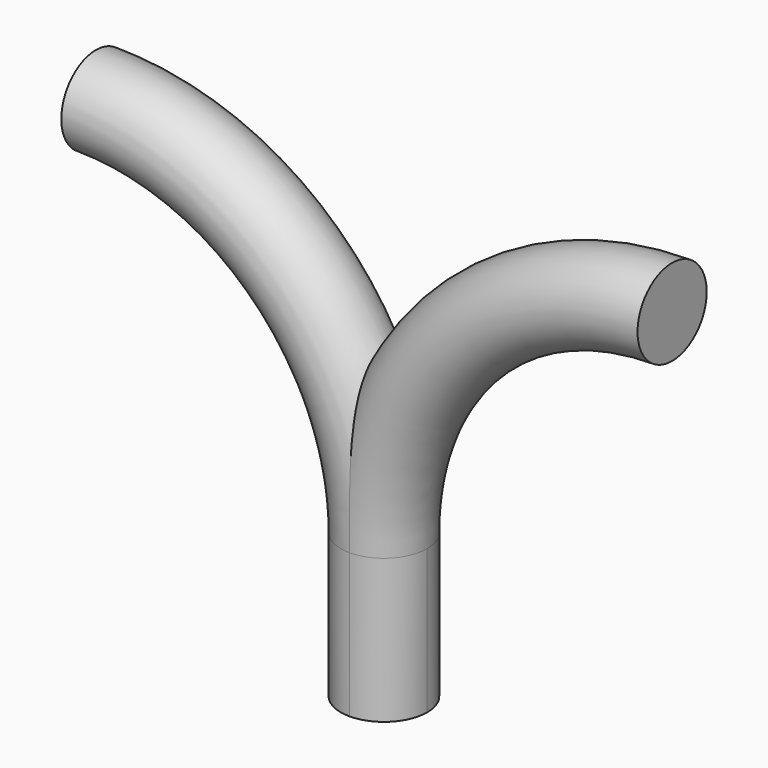
from build123d import *

# Parameters (mm, degrees)
F0_R     = 3.81
F4_DEPTH = 12.7


with BuildPart() as f2:
    # F2: sweep along a path in F1
    with BuildLine(Plane.XZ) as f2_path:
        ThreePointArc((25.4, 25.4), (7.439488, 17.960512), (0, 0))
    # F0 (on Top) → F2 (sweep)
    with BuildSketch(Plane.XY):
        Circle(F0_R)
    sweep(path=f2_path.line)

    # F3: sweep along a path in F1
    with BuildLine(Plane.XZ) as f3_path:
        ThreePointArc((0, 0), (-7.439488, 17.960512), (-25.4, 25.4))
    # F0 (on Top) → F3 (sweep)
    with BuildSketch(Plane.XY):
        Circle(F0_R)
    sweep(path=f3_path.line)

    # F2_face (on face) → F4 (join)
    with BuildSketch(Plane(origin=(0, 0, 0), x_dir=(1, 0, 0), z_dir=(0, 0, -1))):
        with BuildLine():
            ThreePointArc((0, -3.81), (2.694077, -2.694077), (3.81, 0))
            ThreePointArc((3.81, 0), (2.694077, 2.694077), (0, 3.81))
            ThreePointArc((0, 3.81), (-3.81, 0), (0, -3.81))
        make_face()
    extrude(amount=F4_DEPTH)


solid = f2.part
